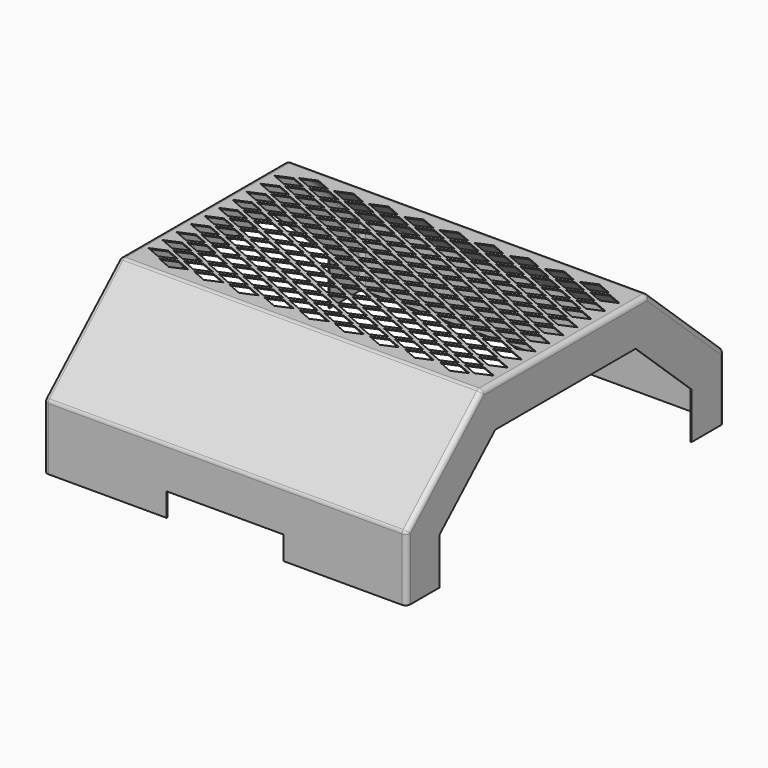
from build123d import *

# Parameters (mm, degrees)
F1_DEPTH = 196.85
F2_R     = 5.08
F3_T     = -0.9525
F4_W     = 127
F4_H     = 25.4
F5_DEPTH = 25.4
F7_DEPTH = 25.4


with BuildPart() as f1:
    # F0 (on Right) → F1 (new body, symmetric)
    with BuildSketch(Plane.YZ):
        Polygon((112.592913, 164.460092), (0, 164.460092), (-112.592913, 164.460092), (-215.379199, 69.85), (-215.379199, 0), (-170.929199, 0), (-170.929199, 50.350838), (-95.25, 120.010092), (0, 120.010092), (95.25, 120.010092), (170.929199, 50.350838), (170.929199, 0), (215.379199, 0), (215.379199, 69.85), align=None)
    extrude(amount=F1_DEPTH, both=True)

    # F2
    f2_edges = [f1.edges().sort_by_distance(p)[0] for p in [
        (-196.85, 0, 164.460092),
        (196.85, 0, 164.460092),
        (196.85, -163.986056, 117.155046),
        (196.85, -215.379199, 34.925),
        (196.85, 163.986056, 117.155046),
        (196.85, 215.379199, 34.925),
        (-196.85, 215.379199, 34.925),
        (-196.85, 163.986056, 117.155046),
        (-196.85, -163.986056, 117.155046),
        (-196.85, -215.379199, 34.925),
        (0, -215.379199, 69.85),
        (0, -112.592913, 164.460092),
        (0, 112.592913, 164.460092),
        (0, 215.379199, 69.85),
    ]]
    fillet(f2_edges, radius=F2_R)

    # F3
    f3_openings = [f1.faces().sort_by_distance(p)[0] for p in [
        (0, 0, 120.010092),
        (0, 133.089599, 85.180465),
        (0, 170.929199, 25.175419),
        (0, 193.140842, 0),
        (0, -133.089599, 85.180465),
        (0, -170.929199, 25.175419),
        (0, -193.140842, 0),
    ]]
    offset(amount=F3_T, openings=f3_openings)

    # F4 (on face) → F5 (cut)
    with BuildSketch(Plane.XZ.offset(215.379199)):
        with Locations((0, 12.7)):
            Rectangle(F4_W, F4_H)
    extrude(amount=-F5_DEPTH, mode=Mode.SUBTRACT)

    # F6 (on face) → F7 (cut)
    with BuildSketch(Plane.XY.offset(164.460092)):
        Polygon((0, 6.76275), (-15.875, 0), (0, -6.76275), (15.875, 0), align=None)
        Polygon((0, 25.68575), (-15.875, 18.923), (0, 12.16025), (15.875, 18.923), align=None)
        Polygon((0, 44.60875), (-15.875, 37.846), (0, 31.08325), (15.875, 37.846), align=None)
        Polygon((0, 63.53175), (-15.875, 56.769), (0, 50.00625), (15.875, 56.769), align=None)
        Polygon((0, 82.45475), (-15.875, 75.692), (0, 68.92925), (15.875, 75.692), align=None)
        Polygon((0, 101.37775), (-15.875, 94.615), (0, 87.85225), (15.875, 94.615), align=None)
        Polygon((38.1, 6.76275), (22.225, 0), (38.1, -6.76275), (53.975, 0), align=None)
        Polygon((38.1, 25.68575), (22.225, 18.923), (38.1, 12.16025), (53.975, 18.923), align=None)
        Polygon((38.1, 44.60875), (22.225, 37.846), (38.1, 31.08325), (53.975, 37.846), align=None)
        Polygon((38.1, 63.53175), (22.225, 56.769), (38.1, 50.00625), (53.975, 56.769), align=None)
        Polygon((38.1, 82.45475), (22.225, 75.692), (38.1, 68.92925), (53.975, 75.692), align=None)
        Polygon((38.1, 101.37775), (22.225, 94.615), (38.1, 87.85225), (53.975, 94.615), align=None)
        Polygon((76.2, 6.76275), (60.325, 0), (76.2, -6.76275), (92.075, 0), align=None)
        Polygon((76.2, 25.68575), (60.325, 18.923), (76.2, 12.16025), (92.075, 18.923), align=None)
        Polygon((76.2, 44.60875), (60.325, 37.846), (76.2, 31.08325), (92.075, 37.846), align=None)
        Polygon((76.2, 63.53175), (60.325, 56.769), (76.2, 50.00625), (92.075, 56.769), align=None)
        Polygon((76.2, 82.45475), (60.325, 75.692), (76.2, 68.92925), (92.075, 75.692), align=None)
        Polygon((76.2, 101.37775), (60.325, 94.615), (76.2, 87.85225), (92.075, 94.615), align=None)
        Polygon((114.3, 6.76275), (98.425, 0), (114.3, -6.76275), (130.175, 0), align=None)
        Polygon((114.3, 25.68575), (98.425, 18.923), (114.3, 12.16025), (130.175, 18.923), align=None)
        Polygon((114.3, 44.60875), (98.425, 37.846), (114.3, 31.08325), (130.175, 37.846), align=None)
        Polygon((114.3, 63.53175), (98.425, 56.769), (114.3, 50.00625), (130.175, 56.769), align=None)
        Polygon((114.3, 82.45475), (98.425, 75.692), (114.3, 68.92925), (130.175, 75.692), align=None)
        Polygon((114.3, 101.37775), (98.425, 94.615), (114.3, 87.85225), (130.175, 94.615), align=None)
        Polygon((152.4, 6.76275), (136.525, 0), (152.4, -6.76275), (168.275, 0), align=None)
        Polygon((152.4, 25.68575), (136.525, 18.923), (152.4, 12.16025), (168.275, 18.923), align=None)
        Polygon((152.4, 44.60875), (136.525, 37.846), (152.4, 31.08325), (168.275, 37.846), align=None)
        Polygon((152.4, 63.53175), (136.525, 56.769), (152.4, 50.00625), (168.275, 56.769), align=None)
        Polygon((152.4, 82.45475), (136.525, 75.692), (152.4, 68.92925), (168.275, 75.692), align=None)
        Polygon((152.4, 101.37775), (136.525, 94.615), (152.4, 87.85225), (168.275, 94.615), align=None)
        Polygon((-15.875, -18.923), (0, -25.68575), (15.875, -18.923), (0, -12.16025), align=None)
        Polygon((130.175, -18.923), (114.3, -12.16025), (98.425, -18.923), (114.3, -25.68575), align=None)
        Polygon((53.975, -18.923), (38.1, -12.16025), (22.225, -18.923), (38.1, -25.68575), align=None)
        Polygon((168.275, -18.923), (152.4, -12.16025), (136.525, -18.923), (152.4, -25.68575), align=None)
        Polygon((92.075, -18.923), (76.2, -12.16025), (60.325, -18.923), (76.2, -25.68575), align=None)
        Polygon((-15.875, -37.846), (0, -44.60875), (15.875, -37.846), (0, -31.08325), align=None)
        Polygon((130.175, -37.846), (114.3, -31.08325), (98.425, -37.846), (114.3, -44.60875), align=None)
        Polygon((53.975, -37.846), (38.1, -31.08325), (22.225, -37.846), (38.1, -44.60875), align=None)
        Polygon((168.275, -37.846), (152.4, -31.08325), (136.525, -37.846), (152.4, -44.60875), align=None)
        Polygon((92.075, -37.846), (76.2, -31.08325), (60.325, -37.846), (76.2, -44.60875), align=None)
        Polygon((-15.875, -56.769), (0, -63.53175), (15.875, -56.769), (0, -50.00625), align=None)
        Polygon((130.175, -56.769), (114.3, -50.00625), (98.425, -56.769), (114.3, -63.53175), align=None)
        Polygon((53.975, -56.769), (38.1, -50.00625), (22.225, -56.769), (38.1, -63.53175), align=None)
        Polygon((168.275, -56.769), (152.4, -50.00625), (136.525, -56.769), (152.4, -63.53175), align=None)
        Polygon((92.075, -56.769), (76.2, -50.00625), (60.325, -56.769), (76.2, -63.53175), align=None)
        Polygon((-15.875, -75.692), (0, -82.45475), (15.875, -75.692), (0, -68.92925), align=None)
        Polygon((130.175, -75.692), (114.3, -68.92925), (98.425, -75.692), (114.3, -82.45475), align=None)
        Polygon((53.975, -75.692), (38.1, -68.92925), (22.225, -75.692), (38.1, -82.45475), align=None)
        Polygon((168.275, -75.692), (152.4, -68.92925), (136.525, -75.692), (152.4, -82.45475), align=None)
        Polygon((92.075, -75.692), (76.2, -68.92925), (60.325, -75.692), (76.2, -82.45475), align=None)
        Polygon((-15.875, -94.615), (0, -101.37775), (15.875, -94.615), (0, -87.85225), align=None)
        Polygon((130.175, -94.615), (114.3, -87.85225), (98.425, -94.615), (114.3, -101.37775), align=None)
        Polygon((53.975, -94.615), (38.1, -87.85225), (22.225, -94.615), (38.1, -101.37775), align=None)
        Polygon((168.275, -94.615), (152.4, -87.85225), (136.525, -94.615), (152.4, -101.37775), align=None)
        Polygon((92.075, -94.615), (76.2, -87.85225), (60.325, -94.615), (76.2, -101.37775), align=None)
        Polygon((-22.225, -56.769), (-38.1, -50.00625), (-53.975, -56.769), (-38.1, -63.53175), align=None)
        Polygon((-53.975, 94.615), (-38.1, 87.85225), (-22.225, 94.615), (-38.1, 101.37775), align=None)
        Polygon((-38.1, 63.53175), (-53.975, 56.769), (-38.1, 50.00625), (-22.225, 56.769), align=None)
        Polygon((-22.225, 37.846), (-38.1, 44.60875), (-53.975, 37.846), (-38.1, 31.08325), align=None)
        Polygon((-22.225, 18.923), (-38.1, 25.68575), (-53.975, 18.923), (-38.1, 12.16025), align=None)
        Polygon((-53.975, 0), (-38.1, -6.76275), (-22.225, 0), (-38.1, 6.76275), align=None)
        Polygon((-22.225, 75.692), (-38.1, 82.45475), (-53.975, 75.692), (-38.1, 68.92925), align=None)
        Polygon((-38.1, -31.08325), (-53.975, -37.846), (-38.1, -44.60875), (-22.225, -37.846), align=None)
        Polygon((-38.1, -87.85225), (-53.975, -94.615), (-38.1, -101.37775), (-22.225, -94.615), align=None)
        Polygon((-38.1, -82.45475), (-22.225, -75.692), (-38.1, -68.92925), (-53.975, -75.692), align=None)
        Polygon((-53.975, -18.923), (-38.1, -25.68575), (-22.225, -18.923), (-38.1, -12.16025), align=None)
        Polygon((-60.325, -56.769), (-76.2, -50.00625), (-92.075, -56.769), (-76.2, -63.53175), align=None)
        Polygon((-92.075, 94.615), (-76.2, 87.85225), (-60.325, 94.615), (-76.2, 101.37775), align=None)
        Polygon((-76.2, 63.53175), (-92.075, 56.769), (-76.2, 50.00625), (-60.325, 56.769), align=None)
        Polygon((-60.325, 37.846), (-76.2, 44.60875), (-92.075, 37.846), (-76.2, 31.08325), align=None)
        Polygon((-60.325, 18.923), (-76.2, 25.68575), (-92.075, 18.923), (-76.2, 12.16025), align=None)
        Polygon((-92.075, 0), (-76.2, -6.76275), (-60.325, 0), (-76.2, 6.76275), align=None)
        Polygon((-60.325, 75.692), (-76.2, 82.45475), (-92.075, 75.692), (-76.2, 68.92925), align=None)
        Polygon((-76.2, -31.08325), (-92.075, -37.846), (-76.2, -44.60875), (-60.325, -37.846), align=None)
        Polygon((-76.2, -87.85225), (-92.075, -94.615), (-76.2, -101.37775), (-60.325, -94.615), align=None)
        Polygon((-76.2, -82.45475), (-60.325, -75.692), (-76.2, -68.92925), (-92.075, -75.692), align=None)
        Polygon((-92.075, -18.923), (-76.2, -25.68575), (-60.325, -18.923), (-76.2, -12.16025), align=None)
        Polygon((-98.425, -56.769), (-114.3, -50.00625), (-130.175, -56.769), (-114.3, -63.53175), align=None)
        Polygon((-130.175, 94.615), (-114.3, 87.85225), (-98.425, 94.615), (-114.3, 101.37775), align=None)
        Polygon((-114.3, 63.53175), (-130.175, 56.769), (-114.3, 50.00625), (-98.425, 56.769), align=None)
        Polygon((-98.425, 37.846), (-114.3, 44.60875), (-130.175, 37.846), (-114.3, 31.08325), align=None)
        Polygon((-98.425, 18.923), (-114.3, 25.68575), (-130.175, 18.923), (-114.3, 12.16025), align=None)
        Polygon((-130.175, 0), (-114.3, -6.76275), (-98.425, 0), (-114.3, 6.76275), align=None)
        Polygon((-98.425, 75.692), (-114.3, 82.45475), (-130.175, 75.692), (-114.3, 68.92925), align=None)
        Polygon((-114.3, -31.08325), (-130.175, -37.846), (-114.3, -44.60875), (-98.425, -37.846), align=None)
        Polygon((-114.3, -87.85225), (-130.175, -94.615), (-114.3, -101.37775), (-98.425, -94.615), align=None)
        Polygon((-114.3, -82.45475), (-98.425, -75.692), (-114.3, -68.92925), (-130.175, -75.692), align=None)
        Polygon((-130.175, -18.923), (-114.3, -25.68575), (-98.425, -18.923), (-114.3, -12.16025), align=None)
        Polygon((-136.525, -56.769), (-152.4, -50.00625), (-168.275, -56.769), (-152.4, -63.53175), align=None)
        Polygon((-168.275, 94.615), (-152.4, 87.85225), (-136.525, 94.615), (-152.4, 101.37775), align=None)
        Polygon((-152.4, 63.53175), (-168.275, 56.769), (-152.4, 50.00625), (-136.525, 56.769), align=None)
        Polygon((-136.525, 37.846), (-152.4, 44.60875), (-168.275, 37.846), (-152.4, 31.08325), align=None)
        Polygon((-136.525, 18.923), (-152.4, 25.68575), (-168.275, 18.923), (-152.4, 12.16025), align=None)
        Polygon((-168.275, 0), (-152.4, -6.76275), (-136.525, 0), (-152.4, 6.76275), align=None)
        Polygon((-136.525, 75.692), (-152.4, 82.45475), (-168.275, 75.692), (-152.4, 68.92925), align=None)
        Polygon((-152.4, -31.08325), (-168.275, -37.846), (-152.4, -44.60875), (-136.525, -37.846), align=None)
        Polygon((-152.4, -87.85225), (-168.275, -94.615), (-152.4, -101.37775), (-136.525, -94.615), align=None)
        Polygon((-152.4, -82.45475), (-136.525, -75.692), (-152.4, -68.92925), (-168.275, -75.692), align=None)
        Polygon((-168.275, -18.923), (-152.4, -25.68575), (-136.525, -18.923), (-152.4, -12.16025), align=None)
        Polygon((171.45, -78.39075), (155.575, -85.1535), (171.45, -91.91625), (187.325, -85.1535), align=None)
        Polygon((155.575, -66.2305), (171.45, -72.99325), (187.325, -66.2305), (171.45, -59.46775), align=None)
        Polygon((155.575, -47.3075), (171.45, -54.07025), (187.325, -47.3075), (171.45, -40.54475), align=None)
        Polygon((155.575, -28.3845), (171.45, -35.14725), (187.325, -28.3845), (171.45, -21.62175), align=None)
        Polygon((155.575, -9.4615), (171.45, -16.22425), (187.325, -9.4615), (171.45, -2.69875), align=None)
        Polygon((155.575, 9.4615), (171.45, 2.69875), (187.325, 9.4615), (171.45, 16.22425), align=None)
        Polygon((155.575, 28.3845), (171.45, 21.62175), (187.325, 28.3845), (171.45, 35.14725), align=None)
        Polygon((155.575, 47.3075), (171.45, 40.54475), (187.325, 47.3075), (171.45, 54.07025), align=None)
        Polygon((155.575, 66.2305), (171.45, 59.46775), (187.325, 66.2305), (171.45, 72.99325), align=None)
        Polygon((155.575, 85.1535), (171.45, 78.39075), (187.325, 85.1535), (171.45, 91.91625), align=None)
        Polygon((117.475, -85.1535), (133.35, -91.91625), (149.225, -85.1535), (133.35, -78.39075), align=None)
        Polygon((117.475, -66.2305), (133.35, -72.99325), (149.225, -66.2305), (133.35, -59.46775), align=None)
        Polygon((117.475, -47.3075), (133.35, -54.07025), (149.225, -47.3075), (133.35, -40.54475), align=None)
        Polygon((117.475, -28.3845), (133.35, -35.14725), (149.225, -28.3845), (133.35, -21.62175), align=None)
        Polygon((117.475, -9.4615), (133.35, -16.22425), (149.225, -9.4615), (133.35, -2.69875), align=None)
        Polygon((117.475, 9.4615), (133.35, 2.69875), (149.225, 9.4615), (133.35, 16.22425), align=None)
        Polygon((117.475, 28.3845), (133.35, 21.62175), (149.225, 28.3845), (133.35, 35.14725), align=None)
        Polygon((117.475, 47.3075), (133.35, 40.54475), (149.225, 47.3075), (133.35, 54.07025), align=None)
        Polygon((117.475, 66.2305), (133.35, 59.46775), (149.225, 66.2305), (133.35, 72.99325), align=None)
        Polygon((117.475, 85.1535), (133.35, 78.39075), (149.225, 85.1535), (133.35, 91.91625), align=None)
        Polygon((79.375, -85.1535), (95.25, -91.91625), (111.125, -85.1535), (95.25, -78.39075), align=None)
        Polygon((79.375, -66.2305), (95.25, -72.99325), (111.125, -66.2305), (95.25, -59.46775), align=None)
        Polygon((79.375, -47.3075), (95.25, -54.07025), (111.125, -47.3075), (95.25, -40.54475), align=None)
        Polygon((79.375, -28.3845), (95.25, -35.14725), (111.125, -28.3845), (95.25, -21.62175), align=None)
        Polygon((79.375, -9.4615), (95.25, -16.22425), (111.125, -9.4615), (95.25, -2.69875), align=None)
        Polygon((79.375, 9.4615), (95.25, 2.69875), (111.125, 9.4615), (95.25, 16.22425), align=None)
        Polygon((79.375, 28.3845), (95.25, 21.62175), (111.125, 28.3845), (95.25, 35.14725), align=None)
        Polygon((79.375, 47.3075), (95.25, 40.54475), (111.125, 47.3075), (95.25, 54.07025), align=None)
        Polygon((79.375, 66.2305), (95.25, 59.46775), (111.125, 66.2305), (95.25, 72.99325), align=None)
        Polygon((79.375, 85.1535), (95.25, 78.39075), (111.125, 85.1535), (95.25, 91.91625), align=None)
        Polygon((41.275, -85.1535), (57.15, -91.91625), (73.025, -85.1535), (57.15, -78.39075), align=None)
        Polygon((41.275, -66.2305), (57.15, -72.99325), (73.025, -66.2305), (57.15, -59.46775), align=None)
        Polygon((41.275, -47.3075), (57.15, -54.07025), (73.025, -47.3075), (57.15, -40.54475), align=None)
        Polygon((41.275, -28.3845), (57.15, -35.14725), (73.025, -28.3845), (57.15, -21.62175), align=None)
        Polygon((41.275, -9.4615), (57.15, -16.22425), (73.025, -9.4615), (57.15, -2.69875), align=None)
        Polygon((41.275, 9.4615), (57.15, 2.69875), (73.025, 9.4615), (57.15, 16.22425), align=None)
        Polygon((41.275, 28.3845), (57.15, 21.62175), (73.025, 28.3845), (57.15, 35.14725), align=None)
        Polygon((41.275, 47.3075), (57.15, 40.54475), (73.025, 47.3075), (57.15, 54.07025), align=None)
        Polygon((41.275, 66.2305), (57.15, 59.46775), (73.025, 66.2305), (57.15, 72.99325), align=None)
        Polygon((41.275, 85.1535), (57.15, 78.39075), (73.025, 85.1535), (57.15, 91.91625), align=None)
        Polygon((3.175, -85.1535), (19.05, -91.91625), (34.925, -85.1535), (19.05, -78.39075), align=None)
        Polygon((3.175, -66.2305), (19.05, -72.99325), (34.925, -66.2305), (19.05, -59.46775), align=None)
        Polygon((3.175, -47.3075), (19.05, -54.07025), (34.925, -47.3075), (19.05, -40.54475), align=None)
        Polygon((3.175, -28.3845), (19.05, -35.14725), (34.925, -28.3845), (19.05, -21.62175), align=None)
        Polygon((3.175, -9.4615), (19.05, -16.22425), (34.925, -9.4615), (19.05, -2.69875), align=None)
        Polygon((3.175, 9.4615), (19.05, 2.69875), (34.925, 9.4615), (19.05, 16.22425), align=None)
        Polygon((3.175, 28.3845), (19.05, 21.62175), (34.925, 28.3845), (19.05, 35.14725), align=None)
        Polygon((3.175, 47.3075), (19.05, 40.54475), (34.925, 47.3075), (19.05, 54.07025), align=None)
        Polygon((3.175, 66.2305), (19.05, 59.46775), (34.925, 66.2305), (19.05, 72.99325), align=None)
        Polygon((3.175, 85.1535), (19.05, 78.39075), (34.925, 85.1535), (19.05, 91.91625), align=None)
        Polygon((-34.925, -85.1535), (-19.05, -91.91625), (-3.175, -85.1535), (-19.05, -78.39075), align=None)
        Polygon((-34.925, -66.2305), (-19.05, -72.99325), (-3.175, -66.2305), (-19.05, -59.46775), align=None)
        Polygon((-34.925, -47.3075), (-19.05, -54.07025), (-3.175, -47.3075), (-19.05, -40.54475), align=None)
        Polygon((-34.925, -28.3845), (-19.05, -35.14725), (-3.175, -28.3845), (-19.05, -21.62175), align=None)
        Polygon((-34.925, -9.4615), (-19.05, -16.22425), (-3.175, -9.4615), (-19.05, -2.69875), align=None)
        Polygon((-34.925, 9.4615), (-19.05, 2.69875), (-3.175, 9.4615), (-19.05, 16.22425), align=None)
        Polygon((-34.925, 28.3845), (-19.05, 21.62175), (-3.175, 28.3845), (-19.05, 35.14725), align=None)
        Polygon((-34.925, 47.3075), (-19.05, 40.54475), (-3.175, 47.3075), (-19.05, 54.07025), align=None)
        Polygon((-34.925, 66.2305), (-19.05, 59.46775), (-3.175, 66.2305), (-19.05, 72.99325), align=None)
        Polygon((-34.925, 85.1535), (-19.05, 78.39075), (-3.175, 85.1535), (-19.05, 91.91625), align=None)
        Polygon((-73.025, -85.1535), (-57.15, -91.91625), (-41.275, -85.1535), (-57.15, -78.39075), align=None)
        Polygon((-73.025, -66.2305), (-57.15, -72.99325), (-41.275, -66.2305), (-57.15, -59.46775), align=None)
        Polygon((-73.025, -47.3075), (-57.15, -54.07025), (-41.275, -47.3075), (-57.15, -40.54475), align=None)
        Polygon((-73.025, -28.3845), (-57.15, -35.14725), (-41.275, -28.3845), (-57.15, -21.62175), align=None)
        Polygon((-73.025, -9.4615), (-57.15, -16.22425), (-41.275, -9.4615), (-57.15, -2.69875), align=None)
        Polygon((-73.025, 9.4615), (-57.15, 2.69875), (-41.275, 9.4615), (-57.15, 16.22425), align=None)
        Polygon((-73.025, 28.3845), (-57.15, 21.62175), (-41.275, 28.3845), (-57.15, 35.14725), align=None)
        Polygon((-73.025, 47.3075), (-57.15, 40.54475), (-41.275, 47.3075), (-57.15, 54.07025), align=None)
        Polygon((-73.025, 66.2305), (-57.15, 59.46775), (-41.275, 66.2305), (-57.15, 72.99325), align=None)
        Polygon((-73.025, 85.1535), (-57.15, 78.39075), (-41.275, 85.1535), (-57.15, 91.91625), align=None)
        Polygon((-111.125, -85.1535), (-95.25, -91.91625), (-79.375, -85.1535), (-95.25, -78.39075), align=None)
        Polygon((-111.125, -66.2305), (-95.25, -72.99325), (-79.375, -66.2305), (-95.25, -59.46775), align=None)
        Polygon((-111.125, -47.3075), (-95.25, -54.07025), (-79.375, -47.3075), (-95.25, -40.54475), align=None)
        Polygon((-111.125, -28.3845), (-95.25, -35.14725), (-79.375, -28.3845), (-95.25, -21.62175), align=None)
        Polygon((-111.125, -9.4615), (-95.25, -16.22425), (-79.375, -9.4615), (-95.25, -2.69875), align=None)
        Polygon((-111.125, 9.4615), (-95.25, 2.69875), (-79.375, 9.4615), (-95.25, 16.22425), align=None)
        Polygon((-111.125, 28.3845), (-95.25, 21.62175), (-79.375, 28.3845), (-95.25, 35.14725), align=None)
        Polygon((-111.125, 47.3075), (-95.25, 40.54475), (-79.375, 47.3075), (-95.25, 54.07025), align=None)
        Polygon((-111.125, 66.2305), (-95.25, 59.46775), (-79.375, 66.2305), (-95.25, 72.99325), align=None)
        Polygon((-111.125, 85.1535), (-95.25, 78.39075), (-79.375, 85.1535), (-95.25, 91.91625), align=None)
        Polygon((-149.225, -85.1535), (-133.35, -91.91625), (-117.475, -85.1535), (-133.35, -78.39075), align=None)
        Polygon((-149.225, -66.2305), (-133.35, -72.99325), (-117.475, -66.2305), (-133.35, -59.46775), align=None)
        Polygon((-149.225, -47.3075), (-133.35, -54.07025), (-117.475, -47.3075), (-133.35, -40.54475), align=None)
        Polygon((-149.225, -28.3845), (-133.35, -35.14725), (-117.475, -28.3845), (-133.35, -21.62175), align=None)
        Polygon((-149.225, -9.4615), (-133.35, -16.22425), (-117.475, -9.4615), (-133.35, -2.69875), align=None)
        Polygon((-149.225, 9.4615), (-133.35, 2.69875), (-117.475, 9.4615), (-133.35, 16.22425), align=None)
        Polygon((-149.225, 28.3845), (-133.35, 21.62175), (-117.475, 28.3845), (-133.35, 35.14725), align=None)
        Polygon((-149.225, 47.3075), (-133.35, 40.54475), (-117.475, 47.3075), (-133.35, 54.07025), align=None)
        Polygon((-149.225, 66.2305), (-133.35, 59.46775), (-117.475, 66.2305), (-133.35, 72.99325), align=None)
        Polygon((-149.225, 85.1535), (-133.35, 78.39075), (-117.475, 85.1535), (-133.35, 91.91625), align=None)
        Polygon((-187.325, -85.1535), (-171.45, -91.91625), (-155.575, -85.1535), (-171.45, -78.39075), align=None)
        Polygon((-187.325, -66.2305), (-171.45, -72.99325), (-155.575, -66.2305), (-171.45, -59.46775), align=None)
        Polygon((-187.325, -47.3075), (-171.45, -54.07025), (-155.575, -47.3075), (-171.45, -40.54475), align=None)
        Polygon((-187.325, -28.3845), (-171.45, -35.14725), (-155.575, -28.3845), (-171.45, -21.62175), align=None)
        Polygon((-187.325, -9.4615), (-171.45, -16.22425), (-155.575, -9.4615), (-171.45, -2.69875), align=None)
        Polygon((-187.325, 9.4615), (-171.45, 2.69875), (-155.575, 9.4615), (-171.45, 16.22425), align=None)
        Polygon((-187.325, 28.3845), (-171.45, 21.62175), (-155.575, 28.3845), (-171.45, 35.14725), align=None)
        Polygon((-187.325, 47.3075), (-171.45, 40.54475), (-155.575, 47.3075), (-171.45, 54.07025), align=None)
        Polygon((-187.325, 66.2305), (-171.45, 59.46775), (-155.575, 66.2305), (-171.45, 72.99325), align=None)
        Polygon((-187.325, 85.1535), (-171.45, 78.39075), (-155.575, 85.1535), (-171.45, 91.91625), align=None)
    extrude(amount=-F7_DEPTH, mode=Mode.SUBTRACT)


solid = f1.part
